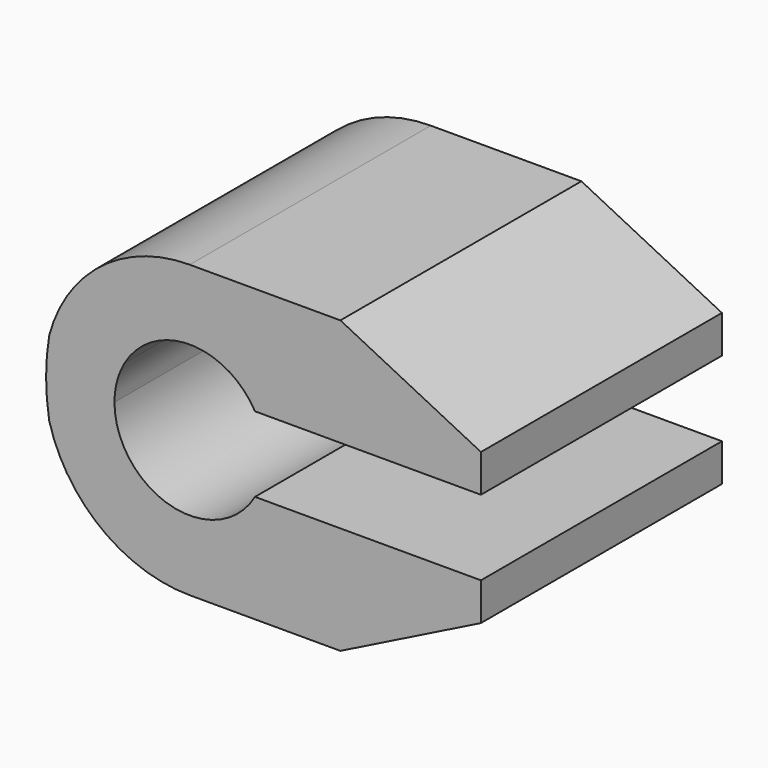
from build123d import *

# Parameters (mm, degrees)
F1_DEPTH = 20


with BuildPart() as f1:
    # F0 (on Front) → F1 (new body)
    with BuildSketch(Plane.XZ):
        with BuildLine():
            ThreePointArc((-4.330127, 2.5), (0, 5), (4.330127, 2.5))
            Line((4.330127, 2.5), (19.330127, 2.5))
            Line((19.330127, 2.5), (19.330127, 5))
            Line((19.330127, 5), (10, 9.659258))
            Line((10, 9.659258), (0, 9.659258))
            ThreePointArc((0, 9.659258), (-5.880184, 7.663205), (-9.330127, 2.5))
            Line((-9.330127, 2.5), (-4.330127, 2.5))
        make_face()
        with BuildLine():
            Line((19.330127, -2.5), (4.330127, -2.5))
            ThreePointArc((4.330127, -2.5), (-1.294095, -4.829629), (-5, 0))
            ThreePointArc((-5, 0), (-4.829629, 1.294095), (-4.330127, 2.5))
            Line((-4.330127, 2.5), (-9.330127, 2.5))
            ThreePointArc((-9.330127, 2.5), (-9.539928, 0), (-9.330127, -2.5))
            ThreePointArc((-9.330127, -2.5), (-5.880184, -7.663205), (0, -9.659258))
            Line((0, -9.659258), (10, -9.659258))
            Line((10, -9.659258), (19.330127, -5))
            Line((19.330127, -5), (19.330127, -2.5))
        make_face()
    extrude(amount=-F1_DEPTH)


solid = f1.part
